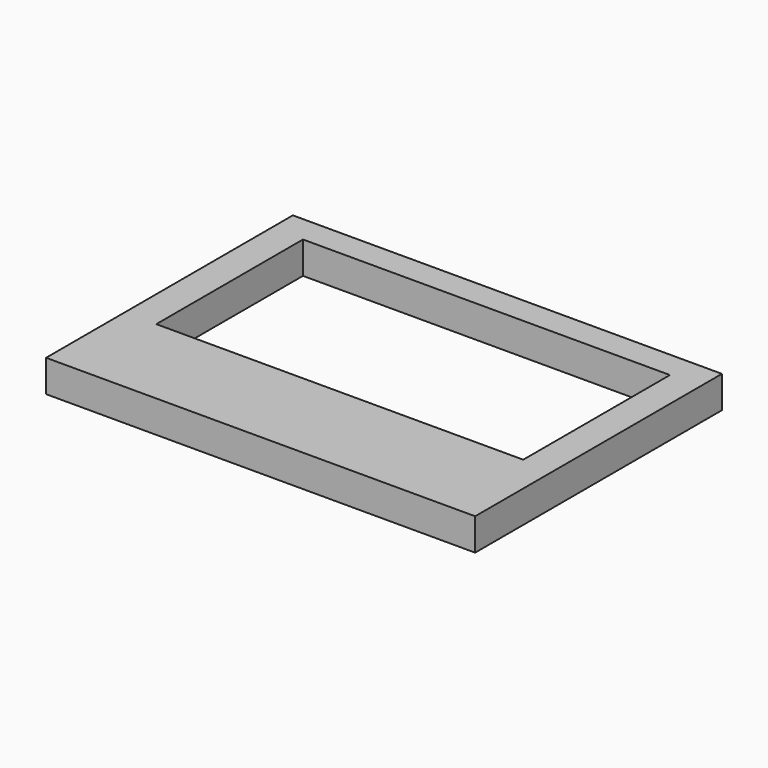
from build123d import *

# Parameters (mm, degrees)
BOX011_W     = 29.42
BOX011_H     = 14.7
BOX011_DEPTH = 2.57
BOX010_W     = 34.4
BOX010_H     = 24.73
BOX010_DEPTH = 2.57


with BuildPart() as cube011:
    # Box011 → Box011 (new body)
    with BuildSketch(Plane(origin=(0.54, 86.87, 8), x_dir=(1, 0, 0), z_dir=(0, 0, 1))):
        with Locations((14.71, 7.35)):
            Rectangle(BOX011_W, BOX011_H)
    extrude(amount=BOX011_DEPTH)


with BuildPart() as cut011:
    # Box010 → Box010 (new body)
    with BuildSketch(Plane(origin=(-2, 79, 8), x_dir=(1, 0, 0), z_dir=(0, 0, 1))):
        with Locations((17.2, 12.365)):
            Rectangle(BOX010_W, BOX010_H)
    extrude(amount=BOX010_DEPTH)

    # Cut011: cut Cube011
    add(cube011.part, mode=Mode.SUBTRACT)


solid = cut011.part
